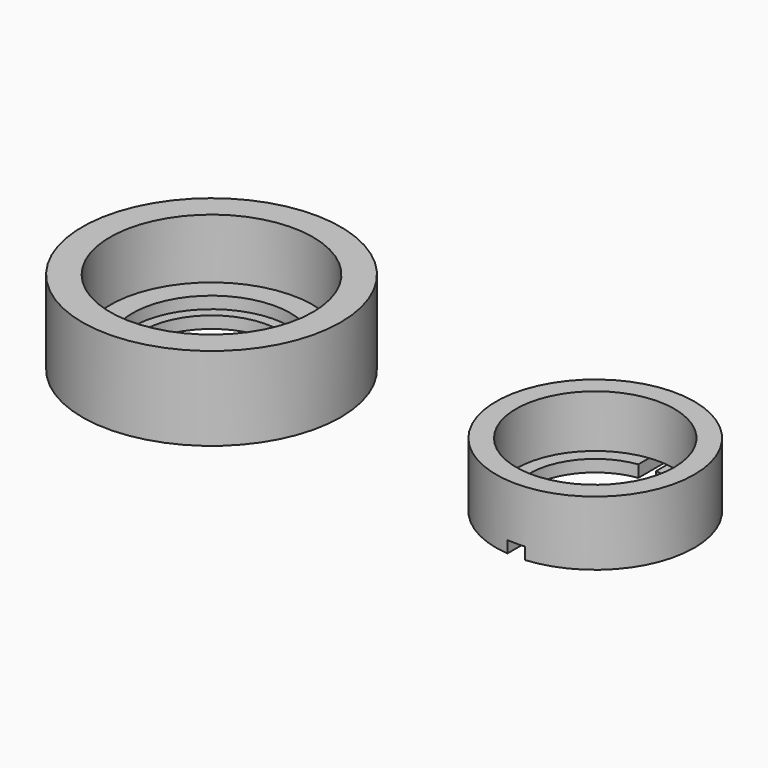
from build123d import *

# Parameters (mm, degrees)
F0_R      = 10.825
F0_R_2    = 5.75
F1_DEPTH  = 1
F2_R      = 10.825
F2_R_2    = 6.625
F3_DEPTH  = 1
F4_R      = 10.825
F4_R_2    = 8.5
F5_DEPTH  = 5
F6_R      = 8.3
F6_R_2    = 5.5
F7_DEPTH  = 1
F8_R      = 8.3
F8_R_2    = 6.625
F9_DEPTH  = 4.4
F11_DEPTH = 1


with BuildPart() as f1:
    # F0 (on Top) → F1 (new body)
    with BuildSketch(Plane.XY):
        Circle(F0_R)
        Circle(F0_R_2, mode=Mode.SUBTRACT)
    extrude(amount=F1_DEPTH)

    # F2 (on face) → F3 (join)
    with BuildSketch(Plane.XY.offset(1)):
        Circle(F2_R)
        Circle(F2_R_2, mode=Mode.SUBTRACT)
    extrude(amount=F3_DEPTH)

    # F4 (on face) → F5 (join)
    with BuildSketch(Plane.XY.offset(2)):
        Circle(F4_R)
        Circle(F4_R_2, mode=Mode.SUBTRACT)
    extrude(amount=F5_DEPTH)


with BuildPart() as f7:
    # F6 (on Top) → F7 (new body)
    with BuildSketch(Plane.XY):
        with Locations((32.1412831545, 0)):
            Circle(F6_R)
        with Locations((32.1412831545, 0)):
            Circle(F6_R_2, mode=Mode.SUBTRACT)
    extrude(amount=F7_DEPTH)

    # F8 (on face) → F9 (join)
    with BuildSketch(Plane.XY.offset(1)):
        with Locations((32.1412831545, 0)):
            Circle(F8_R)
        with Locations((32.1412831545, 0)):
            Circle(F8_R_2, mode=Mode.SUBTRACT)
    extrude(amount=F9_DEPTH)

    # F10 (on face) → F11 (cut)
    with BuildSketch(Plane(origin=(0, 0, 0), x_dir=(1, 0, 0), z_dir=(0, 0, -1))):
        with BuildLine():
            ThreePointArc((31.3912831545, 5.4486236794), (32.1412831545, 5.5), (32.8912831545, 5.4486236794))
            Line((32.8912831545, 5.4486236794), (32.8912831545, 8.2660450035))
            ThreePointArc((32.8912831545, 8.2660450035), (32.1412831545, 8.3), (31.3912831545, 8.2660450035))
            Line((31.3912831545, 8.2660450035), (31.3912831545, 5.4486236794))
        make_face()
        with BuildLine():
            Line((32.8912831545, -8.2660450035), (32.8912831545, -5.4486236794))
            ThreePointArc((32.8912831545, -5.4486236794), (32.1412831545, -5.5), (31.3912831545, -5.4486236794))
            Line((31.3912831545, -5.4486236794), (31.3912831545, -8.2660450035))
            ThreePointArc((31.3912831545, -8.2660450035), (32.1412831545, -8.3), (32.8912831545, -8.2660450035))
        make_face()
    extrude(amount=-F11_DEPTH, mode=Mode.SUBTRACT)


solid = Compound([f1.part, f7.part])
